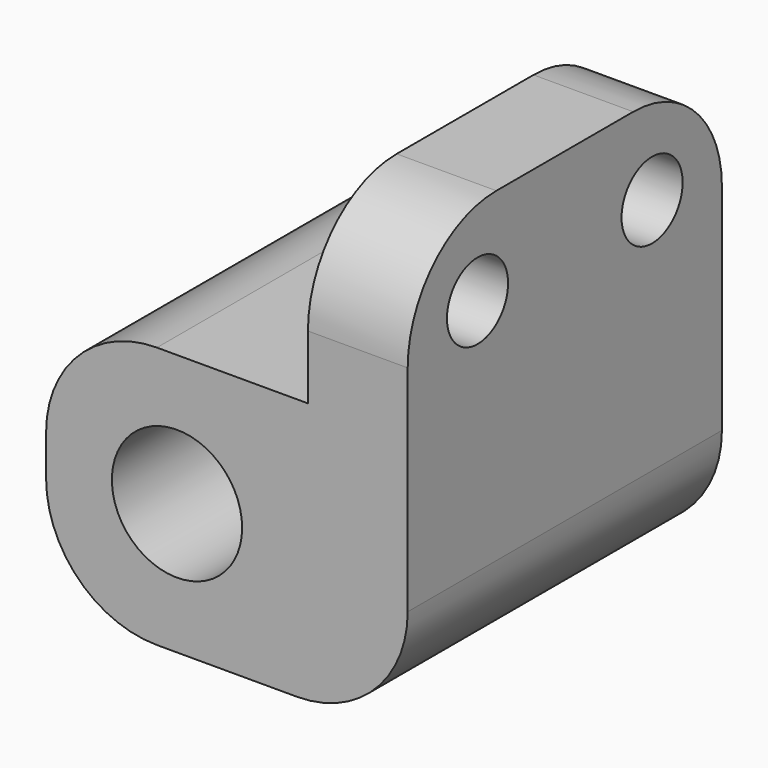
from build123d import *

# Parameters (mm, degrees)
F0_W     = 12
F0_H     = 12
F0_R     = 2.9845
F1_DEPTH = 18
F2_R     = 1.75
F3_DEPTH = 25.4
F4_R     = 5.08


with BuildPart() as f1:
    # F0 (on Front) → F1 (new body)
    with BuildSketch(Plane.XZ):
        with Locations((-14.06993, 28.901128)):
            Rectangle(F0_W, F0_H)
        with Locations((-14.06993, 28.901128)):
            Circle(F0_R, mode=Mode.SUBTRACT)
        Polygon((-8.06993, 42.901128), (-8.06993, 34.901128), (-8.06993, 22.901128), (-3.49793, 22.901128), (-3.49793, 42.901128), align=None)
    extrude(amount=F1_DEPTH)

    # F2 (on face) → F3 (cut)
    with BuildSketch(Plane(origin=(-8.06993, 0, 0), x_dir=(0, -1, 0), z_dir=(-1, 0, 0))):
        with Locations((4, 38.901128)):
            Circle(F2_R)
        with Locations((14, 38.901128)):
            Circle(F2_R)
    extrude(amount=-F3_DEPTH, mode=Mode.SUBTRACT)

    # F4
    f4_edges = [f1.edges().sort_by_distance(p)[0] for p in [
        (-5.78393, 0, 42.901128),
        (-5.78393, -18, 42.901128),
        (-20.06993, -9, 34.901128),
        (-20.06993, -9, 22.901128),
        (-3.49793, -9, 22.901128),
    ]]
    fillet(f4_edges, radius=F4_R)


solid = f1.part
